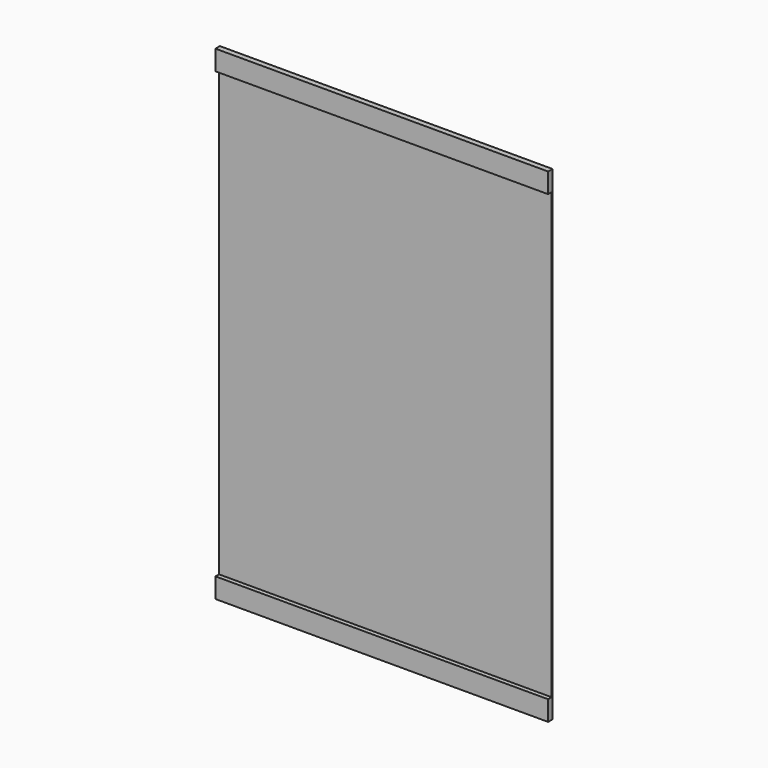
from build123d import *

# Parameters (mm, degrees)
F0_W     = 1500
F0_H     = 90
F1_DEPTH = 25
F0_H_2   = 2005
F2_DEPTH = 5


with BuildPart() as f1:
    # F0 (on Front) → F1 (new body)
    with BuildSketch(Plane.XZ):
        with Locations((750, 45)):
            Rectangle(F0_W, F0_H)
        with Locations((750, -2050)):
            Rectangle(F0_W, F0_H)
    extrude(amount=F1_DEPTH)


with BuildPart() as f2:
    # F0 (on Front) → F2 (new body)
    with BuildSketch(Plane.XZ):
        with Locations((750, -1002.5)):
            Rectangle(F0_W, F0_H_2)
    extrude(amount=F2_DEPTH)


solid = Compound([f1.part, f2.part])
